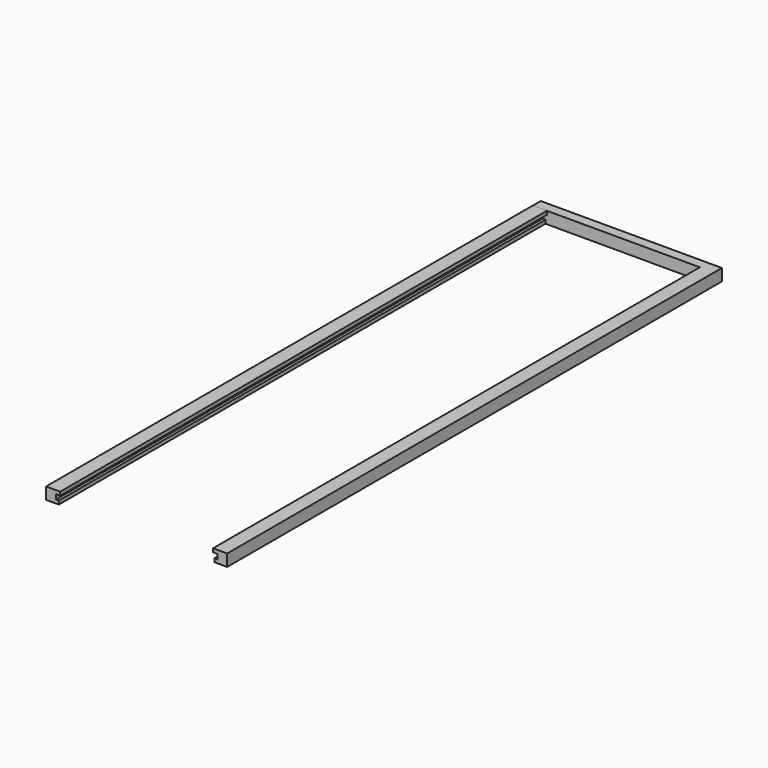
from build123d import *

# Parameters (mm, degrees)
F1_DEPTH = 430
F2_W     = 128
F2_H     = 8.4
F3_DEPTH = 7
F5_DEPTH = 430


with BuildPart() as f1:
    # F0 (on Front) → F1 (new body)
    with BuildSketch(Plane.XZ):
        Polygon((-47.436745, 38.990075), (-57.436745, 38.990075), (-57.436745, 36.490075), (-54.436745, 36.490075), (-54.436745, 33.090075), (-56.436745, 33.090075), (-56.436745, 30.590075), (-47.436745, 30.590075), align=None)
    extrude(amount=F1_DEPTH)

    # F2 (on Front) → F3 (join)
    with BuildSketch(Plane.XZ):
        with Locations((-111.436745, 34.790075)):
            Rectangle(F2_W, F2_H)
    extrude(amount=-F3_DEPTH)

    # F4 (on Front) → F5 (join)
    with BuildSketch(Plane.XZ):
        Polygon((-165.436745, 36.57085), (-165.436745, 39.07085), (-175.436745, 39.07085), (-175.436745, 30.67085), (-166.436745, 30.67085), (-166.436745, 33.17085), (-168.436745, 33.17085), (-168.436745, 36.57085), align=None)
    extrude(amount=F5_DEPTH)


solid = f1.part
